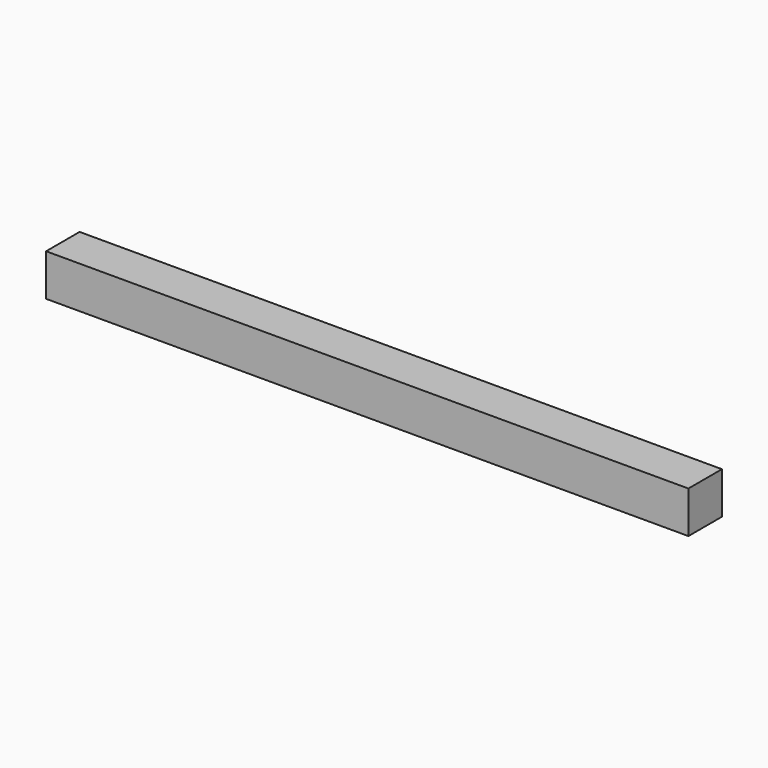
from build123d import *

# Parameters (mm, degrees)
SKETCH_W  = 30
SKETCH_H  = 30
PAD_DEPTH = 460


with BuildPart() as part:
    # Sketch → Pad (new body)
    with BuildSketch(Plane.YZ):
        with Locations((15, 15)):
            Rectangle(SKETCH_W, SKETCH_H)
    extrude(amount=PAD_DEPTH)


solid = part.part
